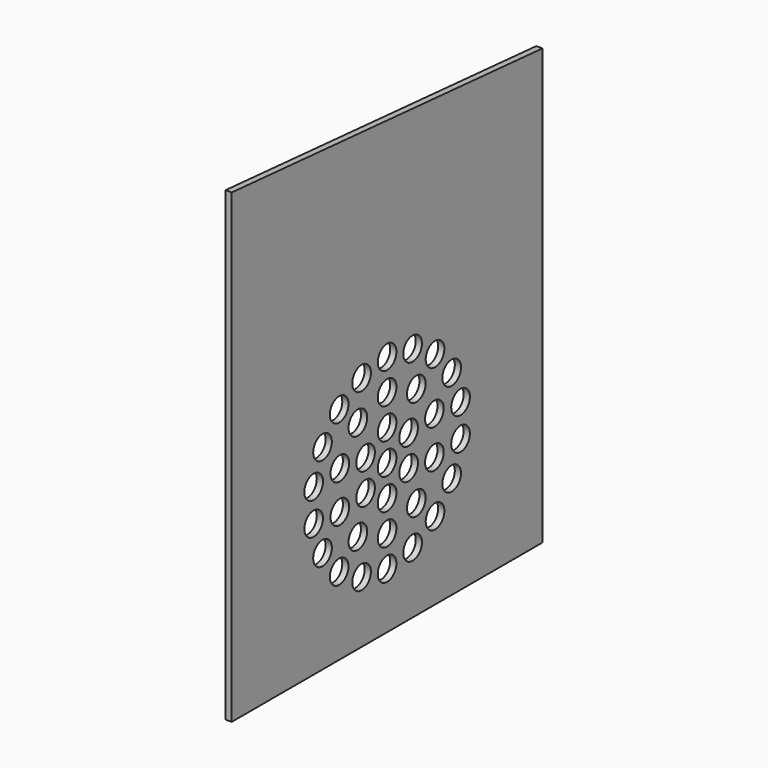
from build123d import *

# Parameters (mm, degrees)
F0_R     = 7.5
F1_DEPTH = 4


with BuildPart() as f1:
    # F0 (on Right) → F1 (new body)
    with BuildSketch(Plane.YZ):
        Polygon((-125, 300), (-125, 0), (125, 0), (125, 280), align=None)
        with Locations((-38.567257, 50.037333)):
            Circle(F0_R, mode=Mode.SUBTRACT)
        with Locations((-51.961524, 66)):
            Circle(F0_R, mode=Mode.SUBTRACT)
        with Locations((-20.521209, 39.618443)):
            Circle(F0_R, mode=Mode.SUBTRACT)
        with Locations((-23.51141, 63.63932)):
            Circle(F0_R, mode=Mode.SUBTRACT)
        with Locations((-59.088465, 85.581109)):
            Circle(F0_R, mode=Mode.SUBTRACT)
        with Locations((-38.042261, 83.63932)):
            Circle(F0_R, mode=Mode.SUBTRACT)
        with Locations((-59.088465, 106.418891)):
            Circle(F0_R, mode=Mode.SUBTRACT)
        with Locations((-38.042261, 108.36068)):
            Circle(F0_R, mode=Mode.SUBTRACT)
        with Locations((-17.320508, 86)):
            Circle(F0_R, mode=Mode.SUBTRACT)
        with Locations((-17.320508, 106)):
            Circle(F0_R, mode=Mode.SUBTRACT)
        with Locations((-51.961524, 126)):
            Circle(F0_R, mode=Mode.SUBTRACT)
        with Locations((-38.567257, 141.962667)):
            Circle(F0_R, mode=Mode.SUBTRACT)
        with Locations((-23.51141, 128.36068)):
            Circle(F0_R, mode=Mode.SUBTRACT)
        with Locations((0, 36)):
            Circle(F0_R, mode=Mode.SUBTRACT)
        with Locations((0, 56)):
            Circle(F0_R, mode=Mode.SUBTRACT)
        with Locations((20.521209, 39.618443)):
            Circle(F0_R, mode=Mode.SUBTRACT)
        with Locations((23.51141, 63.63932)):
            Circle(F0_R, mode=Mode.SUBTRACT)
        with Locations((38.567257, 50.037333)):
            Circle(F0_R, mode=Mode.SUBTRACT)
        with Locations((51.961524, 66)):
            Circle(F0_R, mode=Mode.SUBTRACT)
        with Locations((0, 76)):
            Circle(F0_R, mode=Mode.SUBTRACT)
        with Locations((17.320508, 86)):
            Circle(F0_R, mode=Mode.SUBTRACT)
        with Locations((0, 96)):
            Circle(F0_R, mode=Mode.SUBTRACT)
        with Locations((17.320508, 106)):
            Circle(F0_R, mode=Mode.SUBTRACT)
        with Locations((38.042261, 83.63932)):
            Circle(F0_R, mode=Mode.SUBTRACT)
        with Locations((59.088465, 85.581109)):
            Circle(F0_R, mode=Mode.SUBTRACT)
        with Locations((38.042261, 108.36068)):
            Circle(F0_R, mode=Mode.SUBTRACT)
        with Locations((59.088465, 106.418891)):
            Circle(F0_R, mode=Mode.SUBTRACT)
        with Locations((0, 116)):
            Circle(F0_R, mode=Mode.SUBTRACT)
        with Locations((23.51141, 128.36068)):
            Circle(F0_R, mode=Mode.SUBTRACT)
        with Locations((0, 136)):
            Circle(F0_R, mode=Mode.SUBTRACT)
        with Locations((51.961524, 126)):
            Circle(F0_R, mode=Mode.SUBTRACT)
        with Locations((38.567257, 141.962667)):
            Circle(F0_R, mode=Mode.SUBTRACT)
        with Locations((-20.521209, 152.381557)):
            Circle(F0_R, mode=Mode.SUBTRACT)
        with Locations((0, 156)):
            Circle(F0_R, mode=Mode.SUBTRACT)
        with Locations((20.521209, 152.381557)):
            Circle(F0_R, mode=Mode.SUBTRACT)
    extrude(amount=F1_DEPTH)


solid = f1.part
